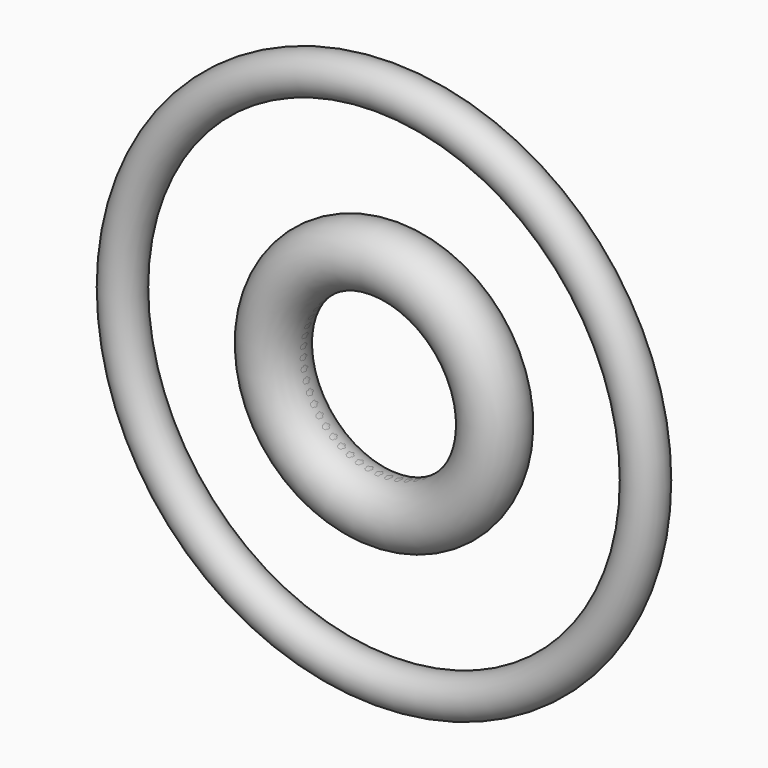
from build123d import *

# Parameters (mm, degrees)
F0_R   = 0.5
F0_R_2 = 0.75


with BuildPart() as f2:
    # F0 (on Right) → F2 (revolve)
    with BuildSketch(Plane.YZ):
        with Locations((0, 6.5)):
            Circle(F0_R)
    revolve(axis=Axis((0, 7.439785, 0), (0, 1, 0)))


with BuildPart() as f3:
    # F0 (on Right) → F3 (revolve)
    with BuildSketch(Plane.YZ):
        with Locations((0, 2.75)):
            Circle(F0_R_2)
    revolve(axis=Axis((0, 7.439785, 0), (0, 1, 0)))


with BuildPart() as f4:
    # F0 (on Right) → F4 (revolve)
    with BuildSketch(Plane.YZ):
        with Locations((0, -2.5)):
            Circle(F0_R)
    revolve(axis=Axis((0, 7.439785, 0), (0, 1, 0)))


solid = Compound([f2.part, f3.part, f4.part])
